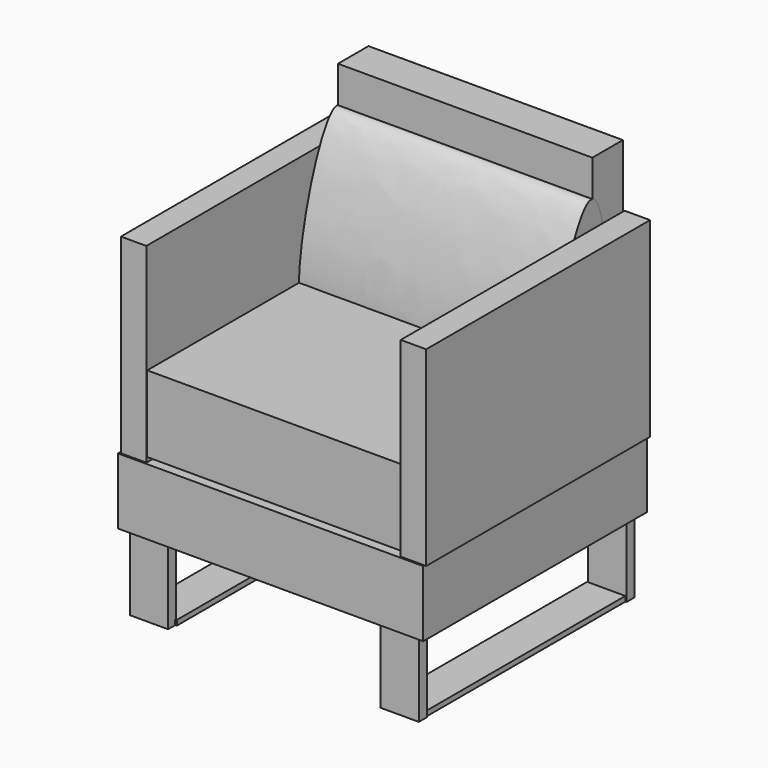
from build123d import *

# Parameters (mm, degrees)
F0_W          = 15
F0_H          = 100
F1_DEPTH      = 2
F4_W          = 15
F4_H          = 30
F5_DEPTH      = 3
F5_DEPTH_BACK = 1
F8_W          = 120
F8_H          = 110
F9_DEPTH      = 25
F9_DEPTH_BACK = 1
F11_W         = 110
F11_H         = 75
F12_DEPTH     = 10
F15_W         = 100
F15_H         = 15
F16_DEPTH     = 100
F18_W         = 100
F18_H         = 93
F19_DEPTH     = 30
F21_DEPTH     = 100


with BuildPart() as f1:
    # F0 (on Top) → F1 (new body)
    with BuildSketch(Plane.XY):
        with Locations((-48.772149086, 0.5487196147)):
            Rectangle(F0_W, F0_H)
    extrude(amount=F1_DEPTH)


with BuildPart() as f2_1:
    # F2: instance of F1
    add(f1.part.mirror(Plane.YZ))


with BuildPart() as f5:
    # F4 (on offset) → F5 (new body, two sides)
    with BuildSketch(Plane.XZ.offset(50)) as f5_sk:
        with Locations((-49.3922273815, 15)):
            Rectangle(F4_W, F4_H)
    extrude(amount=F5_DEPTH)
    extrude(f5_sk.sketch, amount=-F5_DEPTH_BACK)


with BuildPart() as f5b:
    # F4 (on offset) → F5, piece 2 (new body, two sides)
    with BuildSketch(Plane.XZ.offset(50)) as f5_2_sk:
        with Locations((49.2002998292, 15)):
            Rectangle(F4_W, F4_H)
    extrude(amount=F5_DEPTH)
    extrude(f5_2_sk.sketch, amount=-F5_DEPTH_BACK)


with BuildPart() as f6_1:
    # F6: instance of F5
    add(f5.part.mirror(Plane.XZ))


with BuildPart() as f6_2:
    # F6: instance of F5b
    add(f5b.part.mirror(Plane.XZ))


with BuildPart() as f9:
    # F8 (on offset) → F9 (new body, two sides)
    with BuildSketch(Plane.XY.offset(30)) as f9_sk:
        with Locations((-0.937500447, 1.2081678212)):
            Rectangle(F8_W, F8_H)
    extrude(amount=F9_DEPTH)
    extrude(f9_sk.sketch, amount=-F9_DEPTH_BACK)


with BuildPart() as f12:
    # F11 (on offset) → F12 (new body)
    with BuildSketch(Plane.YZ.offset(50)):
        with Locations((1.4902095497, 92.7335903049)):
            Rectangle(F11_W, F11_H)
    extrude(amount=F12_DEPTH)


with BuildPart() as f13_1:
    # F13: instance of F12
    add(f12.part.mirror(Plane.YZ))

    # F18 (on offset) → F19 (join)
    with BuildSketch(Plane.XY.offset(57)):
        with Locations((-0.2780973911, -6.5783124268)):
            Rectangle(F18_W, F18_H)
    extrude(amount=F19_DEPTH)


with BuildPart() as f16:
    # F15 (on offset) → F16 (new body)
    with BuildSketch(Plane.XY.offset(55)):
        with Locations((-0.0332251191, 48.1811274588)):
            Rectangle(F15_W, F15_H)
    extrude(amount=F16_DEPTH)


with BuildPart() as f21:
    # F20 (on offset) → F21 (new body)
    with BuildSketch(Plane.YZ.offset(50)):
        with BuildLine():
            add(Edge.make_bspline(
                [(40.0582775474, 140.7815366983), (48.3531423096, 140.6496717235), (51.4865046204, 67.7875403882), (9.0076107088, 65.4651675986), (31.5598154189, 140.9166382976), (40.0582775474, 140.7815366983)],
                knots=[0, 0, 0, 0, 0.3941365181, 0.5961894053, 1, 1, 1, 1], degree=3))
        make_face()
    extrude(amount=-F21_DEPTH)


solid = Compound([f1.part, f2_1.part, f5.part, f5b.part, f6_1.part, f6_2.part, f9.part, f12.part, f13_1.part, f16.part, f21.part])
